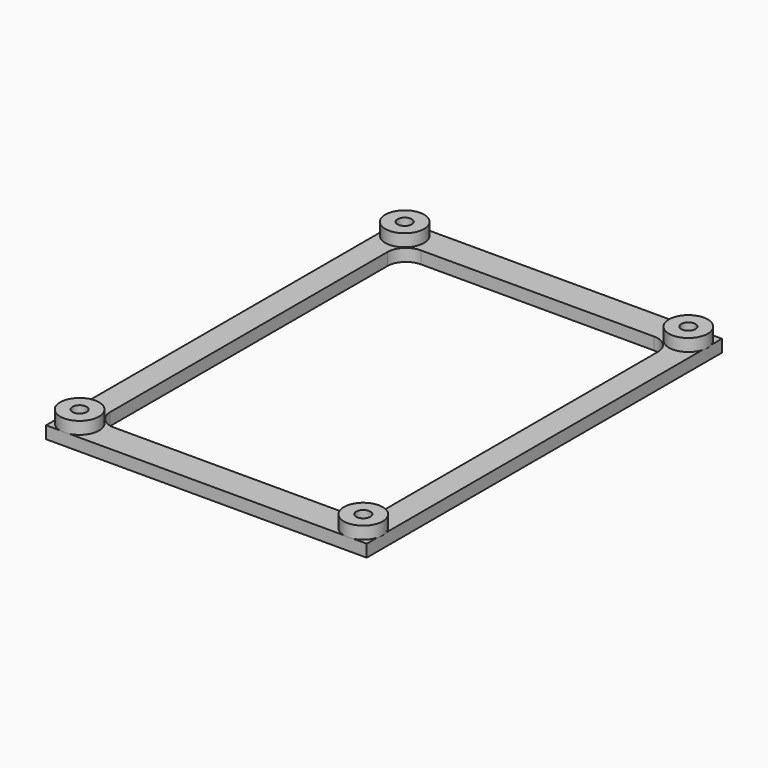
from build123d import *

# Parameters (mm, degrees)
SKETCH_W        = 52
SKETCH_H        = 72
PAD_DEPTH       = 2
SKETCH001_R     = 1.2
POCKET_DEPTH    = 5
SKETCH002_R     = 3.15
SKETCH002_R_2   = 1.15
PAD001_DEPTH    = 2
POCKET001_DEPTH = 5


with BuildPart() as part:
    # Sketch → Pad (new body)
    with BuildSketch(Plane.XY):
        Rectangle(SKETCH_W, SKETCH_H)
    extrude(amount=PAD_DEPTH)

    # Sketch001 (on Face6 of Pad) → Pocket (cut)
    with BuildSketch(Plane.XY.offset(2)):
        with Locations((-23, 32.95)):
            Circle(SKETCH001_R)
        with Locations((23, 32.95)):
            Circle(SKETCH001_R)
        with Locations((-23, -32.95)):
            Circle(SKETCH001_R)
        with Locations((23, -32.95)):
            Circle(SKETCH001_R)
    extrude(amount=-POCKET_DEPTH, mode=Mode.SUBTRACT)

    # Sketch002 (on Face5 of Pocket) → Pad001 (join)
    with BuildSketch(Plane.XY.offset(2)):
        with Locations((-23, 32.95)):
            Circle(SKETCH002_R)
        with Locations((-23, 32.95)):
            Circle(SKETCH002_R_2, mode=Mode.SUBTRACT)
        with Locations((23, 32.95)):
            Circle(SKETCH002_R)
        with Locations((23, 32.95)):
            Circle(SKETCH002_R_2, mode=Mode.SUBTRACT)
        with Locations((-23, -32.95)):
            Circle(SKETCH002_R)
        with Locations((-23, -32.95)):
            Circle(SKETCH002_R_2, mode=Mode.SUBTRACT)
        with Locations((23, -32.95)):
            Circle(SKETCH002_R)
        with Locations((23, -32.95)):
            Circle(SKETCH002_R_2, mode=Mode.SUBTRACT)
    extrude(amount=PAD001_DEPTH)

    # Sketch003 (on Face5 of Pad001) → Pocket001 (cut)
    with BuildSketch(Plane.XY.offset(2)):
        with BuildLine():
            Line((-18.921431, 31.109041), (18.921431, 31.109041))
            ThreePointArc((21.921431, 28.109041), (21.042751, 30.230361), (18.921431, 31.109041))
            Line((21.921431, 28.109041), (21.921431, -28.109041))
            ThreePointArc((18.921431, -31.109041), (21.042751, -30.230361), (21.921431, -28.109041))
            Line((18.921431, -31.109041), (-18.921431, -31.109041))
            ThreePointArc((-21.921431, -28.109041), (-21.042751, -30.230361), (-18.921431, -31.109041))
            Line((-21.921431, -28.109041), (-21.921431, 28.109041))
            ThreePointArc((-18.921431, 31.109041), (-21.042751, 30.230361), (-21.921431, 28.109041))
        make_face()
    extrude(amount=-POCKET001_DEPTH, mode=Mode.SUBTRACT)


solid = part.part
